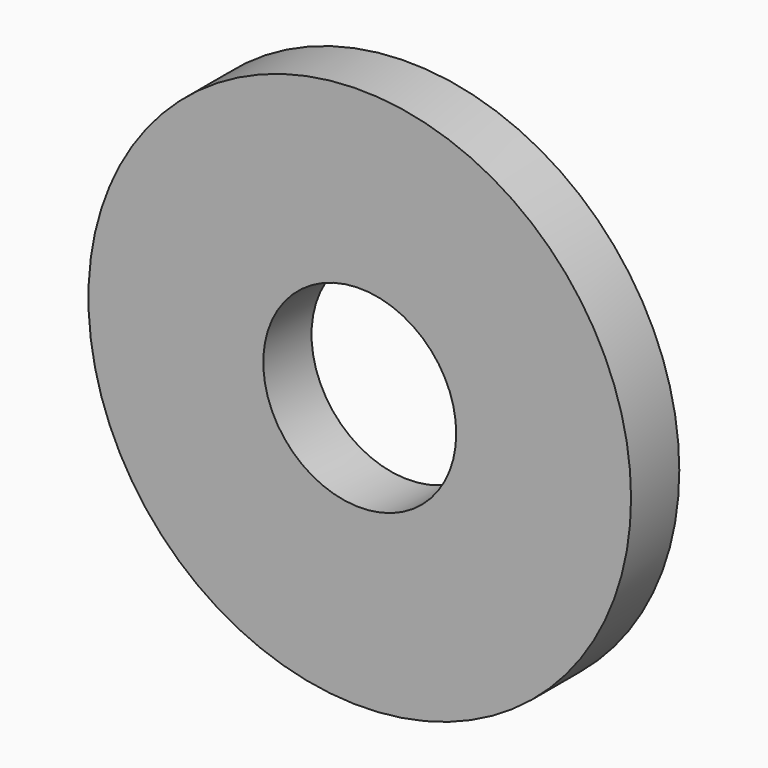
from build123d import *

# Parameters (mm, degrees)
CYLINDER018_R          = 1.6
CYLINDER018_DEPTH      = 1
CYLINDER017_R          = 4.5
CYLINDER017_DEPTH      = 1
CUT020_PLACEMENT_ANGLE = 90


with BuildPart() as facewasherscrewhole:
    # Cylinder018 → Cylinder018 (new body)
    with BuildSketch(Plane.XY):
        Circle(CYLINDER018_R)
    extrude(amount=CYLINDER018_DEPTH)


with BuildPart() as facewasher002:
    # Cylinder017 → Cylinder017 (new body)
    with BuildSketch(Plane.XY):
        Circle(CYLINDER017_R)
    extrude(amount=CYLINDER017_DEPTH)

    # Cut020: cut FaceWasherScrewHole
    add(facewasherscrewhole.part, mode=Mode.SUBTRACT)


with BuildPart() as facewasher002_1:
    # Cut020 placement: moved
    add(facewasher002.part.moved(Location((0, 0, -1))).rotate(Axis((0, 0, -1), (1, 0, 0)), CUT020_PLACEMENT_ANGLE))


with BuildPart() as facewasher002_2:
    # Clone022 placement: moved
    add(facewasher002_1.part.moved(Location((110, 3, 36))))


solid = facewasher002_2.part
